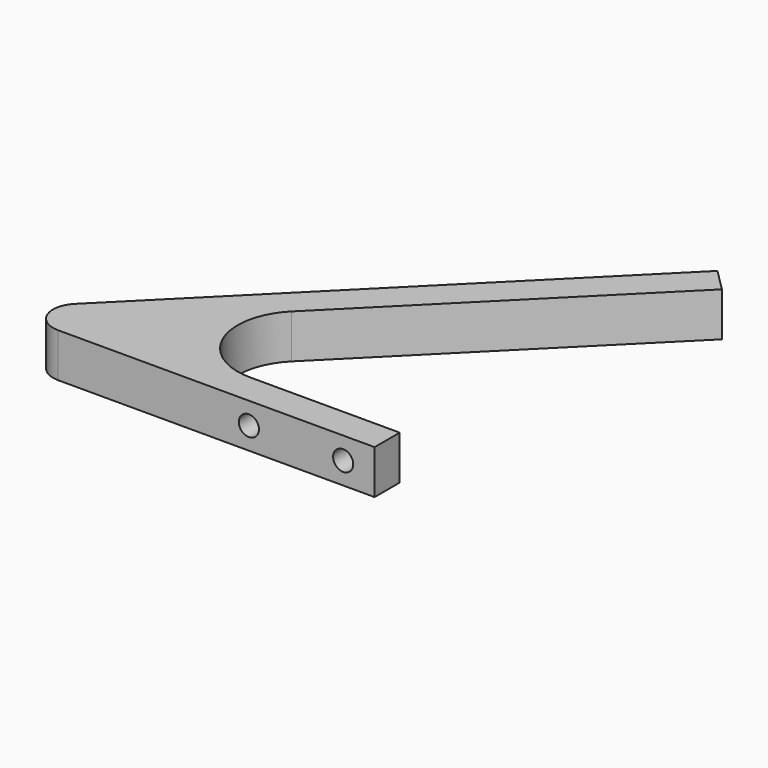
from build123d import *

# Parameters (mm, degrees)
F1_DEPTH = 7
F2_R     = 2
F3_DEPTH = 4
F4_R     = 1.6
F5_DEPTH = 5


with BuildPart() as f1:
    # F0 (on Top) → F1 (new body)
    with BuildSketch(Plane.XY):
        with BuildLine():
            Line((32.346717088, 60.1040764009), (28.811183182, 63.6396103068))
            Line((28.811183182, 63.6396103068), (-28, 6.8284271247))
            ThreePointArc((-28, 6.8284271247), (-28.8670910053, 2.4692662705), (-25.1715728753, 0))
            Line((-25.1715728753, 0), (25.1715728753, 0))
            Line((25.1715728753, 0), (25.1715728753, 5))
            Line((25.1715728753, 5), (1.3847763109, 5))
            ThreePointArc((1.3847763109, 5), (-7.8540190143, 11.1731656763), (-5.686291501, 22.0710678119))
            Line((-5.686291501, 22.0710678119), (32.346717088, 60.1040764009))
        make_face()
    extrude(amount=F1_DEPTH)

    # F2 (on face) → F3 (cut, through all)
    with BuildSketch(Plane(origin=(-17.4142135624, 17.4142135624, 0), x_dir=(-0.7071067812, -0.7071067812, 0), z_dir=(-0.7071067812, 0.7071067812, 0))):
        with Locations((-0.372583002, 3.5)):
            Circle(F2_R)
        with Locations((-60.372583002, 3.5)):
            Circle(F2_R)
        with Locations((-30.372583002, 3.5)):
            Circle(F2_R)
    extrude(amount=-F3_DEPTH, mode=Mode.SUBTRACT)

    # F4 (on face) → F5 (cut, through all)
    with BuildSketch(Plane(origin=(0, 5, 0), x_dir=(-1, 0, 0), z_dir=(0, 1, 0))):
        with Locations((-20.1715728753, 3.5)):
            Circle(F4_R)
        with Locations((-5.1715728753, 3.5)):
            Circle(F4_R)
    extrude(amount=-F5_DEPTH, mode=Mode.SUBTRACT)


solid = f1.part
